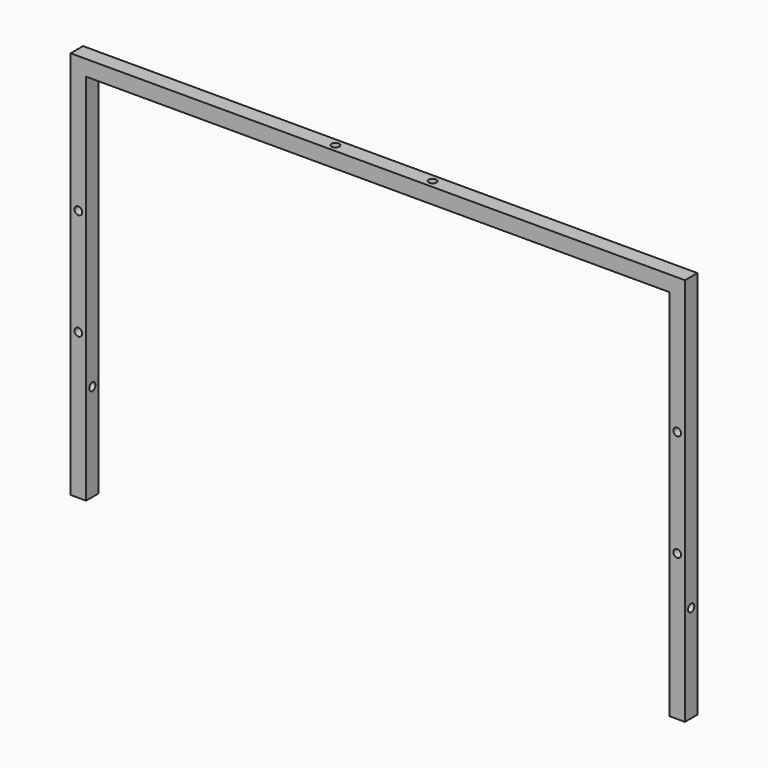
from build123d import *

# Parameters (mm, degrees)
PAD_DEPTH       = 16
SKETCH_R        = 4
POCKET_DEPTH    = 632.001
SKETCH002_R     = 4
POCKET001_DEPTH = 400.001
SKETCH003_R     = 4
POCKET002_DEPTH = 16.001
SKETCH004_R     = 4
POCKET003_DEPTH = 16.001


with BuildPart() as part:
    # Sketch001 → Pad (new body)
    with BuildSketch(Plane.XZ):
        Polygon((300, 0), (300, -100), (316, -100), (316, 300), (-316, 300), (-316, -100), (-300, -100), (-300, 0), (-300, 284), (300, 284), align=None)
    extrude(amount=PAD_DEPTH)

    # Sketch (on Face4 of Pad) → Pocket (cut, through all)
    with BuildSketch(Plane(origin=(-316, 0, 0), x_dir=(0, 0, -1), z_dir=(-1, 0, 0))):
        with Locations((0, 8)):
            Circle(SKETCH_R)
    extrude(amount=-POCKET_DEPTH, mode=Mode.SUBTRACT)

    # Sketch002 (on Face8 of Pocket) → Pocket001 (cut, through all)
    with BuildSketch(Plane(origin=(0, 0, 300), x_dir=(-1, 0, 0), z_dir=(0, 0, 1))):
        with Locations((-50, 8)):
            Circle(SKETCH002_R)
        with Locations((50, 8)):
            Circle(SKETCH002_R)
    extrude(amount=-POCKET001_DEPTH, mode=Mode.SUBTRACT)

    # Sketch003 (on Face4 of Pocket001) → Pocket002 (cut, through all)
    with BuildSketch(Plane(origin=(0, 0, 0), x_dir=(1, 0, 0), z_dir=(0, 1, 0))):
        with Locations((308, -50)):
            Circle(SKETCH003_R)
        with Locations((-308, -50)):
            Circle(SKETCH003_R)
    extrude(amount=-POCKET002_DEPTH, mode=Mode.SUBTRACT)

    # Sketch004 (on Face4 of Pocket002) → Pocket003 (cut, through all)
    with BuildSketch(Plane(origin=(0, 0, 0), x_dir=(1, 0, 0), z_dir=(0, 1, 0))):
        with Locations((308, -160)):
            Circle(SKETCH004_R)
        with Locations((-308, -160)):
            Circle(SKETCH004_R)
    extrude(amount=-POCKET003_DEPTH, mode=Mode.SUBTRACT)


solid = part.part
